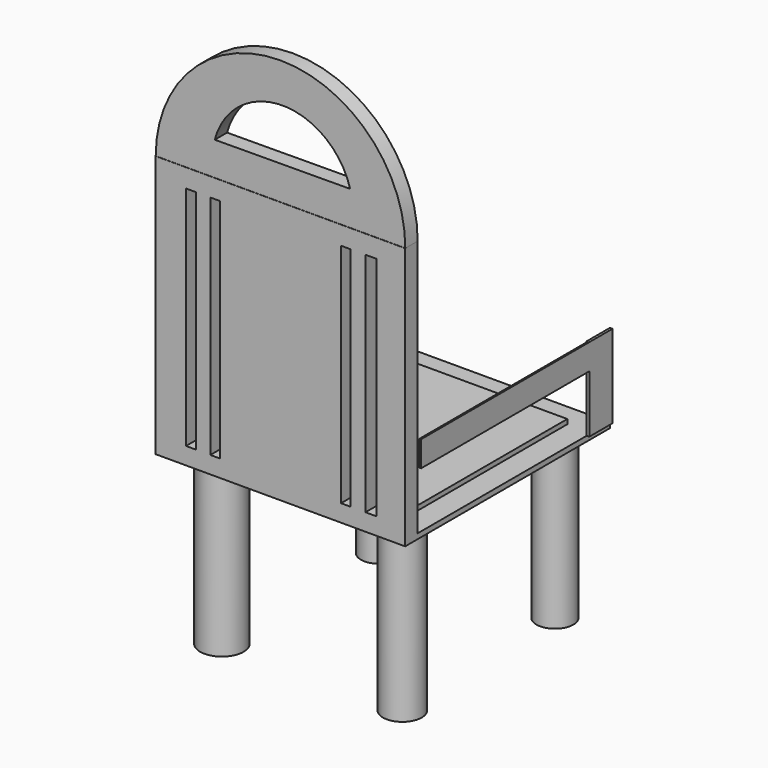
from build123d import *

# Parameters (mm, degrees)
F0_R      = 9.062836
F0_R_2    = 10.71727
F0_R_3    = 9.565889
F0_R_4    = 9.114527
F1_DEPTH  = 82.804
F2_W      = 111.410721
F2_H      = 195.24283
F3_DEPTH  = 3.556
F5_W      = 90.162061
F5_H      = 141.660735
F6_DEPTH  = 2.032
F8_W      = 123.221182
F8_H      = 126.33267
F9_DEPTH  = 2.54
F10_W     = 123.221182
F10_H     = 7.71828
F11_DEPTH = 127
F12_W     = 5.462181
F12_H     = 111.911699
F13_DEPTH = 25.4
F14_W     = 4.629668
F14_H     = 111.911699
F15_DEPTH = 25.4
F16_W     = 4.928287
F16_H     = 111.911699
F17_DEPTH = 25.4
F18_W     = 4.668951
F18_H     = 111.911699
F19_DEPTH = 25.4
F20_W     = 14.313292
F20_H     = 41.077705
F21_DEPTH = 1.27
F22_W     = 103.73351
F22_H     = 12.649953
F23_DEPTH = 0.762
F24_W     = 16.352747
F24_H     = 48.423173
F25_DEPTH = 2.032
F26_W     = 103.02316
F26_H     = 14.192
F27_DEPTH = 2.032
F29_DEPTH = 7.62
F31_DEPTH = 25.4
F32_W     = 101.692434
F32_H     = 96.206847
F33_DEPTH = 2.286
F34_W     = 43.962076
F34_H     = 111.911699
F35_DEPTH = 2.286


with BuildPart() as f1:
    # F0 (on Top) → F1 (new body)
    with BuildSketch(Plane.XY):
        with Locations((-39.874714, 52.111991)):
            Circle(F0_R)
        with Locations((-39.874714, -45.021374)):
            Circle(F0_R_2)
        with Locations((49.208399, -45.021374)):
            Circle(F0_R_3)
        with Locations((46.837922, 52.111991)):
            Circle(F0_R_4)
    extrude(amount=F1_DEPTH)


with BuildPart() as f3:
    # F2 (on Top) → F3 (new body)
    with BuildSketch(Plane.XY):
        with Locations((67.96772, 198.11162)):
            Rectangle(F2_W, F2_H)
    extrude(amount=F3_DEPTH)


with BuildPart() as f6:
    # F5 (on Top) → F6 (new body)
    with BuildSketch(Plane.XY):
        with Locations((151.967335, 70.830367)):
            Rectangle(F5_W, F5_H)
    extrude(amount=F6_DEPTH)


with BuildPart() as f9:
    # F8 (on face) → F9 (new body)
    with BuildSketch(Plane.XY.offset(82.804)):
        with Locations((2.238404, 1.579948)):
            Rectangle(F8_W, F8_H)
    extrude(amount=F9_DEPTH)

    # F10 (on face) → F11 (join)
    with BuildSketch(Plane.XY.offset(85.344)):
        with Locations((2.238404, -57.727247)):
            Rectangle(F10_W, F10_H)
    extrude(amount=F11_DEPTH)

    # F12 (on face) → F13 (cut)
    with BuildSketch(Plane(origin=(0, -53.868107, 0), x_dir=(-1, 0, 0), z_dir=(0, 1, 0))):
        with Locations((-46.983683, 147.220754)):
            Rectangle(F12_W, F12_H)
    extrude(amount=-F13_DEPTH, mode=Mode.SUBTRACT)

    # F14 (on face) → F15 (cut)
    with BuildSketch(Plane(origin=(0, -53.868107, 0), x_dir=(-1, 0, 0), z_dir=(0, 1, 0))):
        with Locations((-34.488795, 147.220754)):
            Rectangle(F14_W, F14_H)
    extrude(amount=-F15_DEPTH, mode=Mode.SUBTRACT)

    # F16 (on face) → F17 (cut)
    with BuildSketch(Plane(origin=(0, -53.868107, 0), x_dir=(-1, 0, 0), z_dir=(0, 1, 0))):
        with Locations((41.865939, 147.220754)):
            Rectangle(F16_W, F16_H)
    extrude(amount=-F17_DEPTH, mode=Mode.SUBTRACT)

    # F18 (on face) → F19 (cut)
    with BuildSketch(Plane(origin=(0, -53.868107, 0), x_dir=(-1, 0, 0), z_dir=(0, 1, 0))):
        with Locations((29.975868, 147.220754)):
            Rectangle(F18_W, F18_H)
    extrude(amount=-F19_DEPTH, mode=Mode.SUBTRACT)

    # F28 (on face) → F29 (join)
    with BuildSketch(Plane(origin=(0, -53.868107, 0), x_dir=(-1, 0, 0), z_dir=(0, 1, 0))):
        with BuildLine():
            Line((-63.848995, 212.344), (59.372187, 212.344))
            ThreePointArc((59.372187, 212.344), (-2.238404, 273.954591), (-63.848995, 212.344))
        make_face()
    extrude(amount=-F29_DEPTH)

    # F30 (on face) → F31 (cut)
    with BuildSketch(Plane(origin=(0, -53.868107, 0), x_dir=(-1, 0, 0), z_dir=(0, 1, 0))):
        with BuildLine():
            Line((-36.602758, 229.271188), (30.214384, 228.904545))
            ThreePointArc((30.214384, 228.904545), (-3.053791, 254.673596), (-36.602758, 229.271188))
        make_face()
    extrude(amount=-F31_DEPTH, mode=Mode.SUBTRACT)

    # F32 (on face) → F33 (join)
    with BuildSketch(Plane.XY.offset(85.344)):
        with Locations((1.17152, 5.1725)):
            Rectangle(F32_W, F32_H)
    extrude(amount=F33_DEPTH)

    # F34 (on face) → F35 (join)
    with BuildSketch(Plane(origin=(0, -53.868107, 0), x_dir=(-1, 0, 0), z_dir=(0, 1, 0))):
        with Locations((-2.4506, 147.220754)):
            Rectangle(F34_W, F34_H)
    extrude(amount=F35_DEPTH)


with BuildPart() as f21:
    # F20 (on face) → F21 (new body)
    with BuildSketch(Plane.YZ.offset(63.848995)):
        with Locations((57.589637, 105.882852)):
            Rectangle(F20_W, F20_H)
    extrude(amount=F21_DEPTH)

    # F22 (on face) → F23 (join)
    with BuildSketch(Plane.YZ.offset(65.118995)):
        with Locations((-1.433764, 120.096728)):
            Rectangle(F22_W, F22_H)
    extrude(amount=-F23_DEPTH)


with BuildPart() as f25:
    # F24 (on face) → F25 (new body)
    with BuildSketch(Plane(origin=(-59.372187, 0, 0), x_dir=(0, -1, 0), z_dir=(-1, 0, 0))):
        with Locations((-56.569909, 109.555586)):
            Rectangle(F24_W, F24_H)
    extrude(amount=F25_DEPTH)


with BuildPart() as f27:
    # F26 (on face) → F27 (new body)
    with BuildSketch(Plane(origin=(-61.404187, 0, 0), x_dir=(0, -1, 0), z_dir=(-1, 0, 0))):
        with Locations((3.118044, 126.671173)):
            Rectangle(F26_W, F26_H)
    extrude(amount=-F27_DEPTH)


solid = Compound([f1.part, f9.part, f21.part, f25.part, f27.part])
